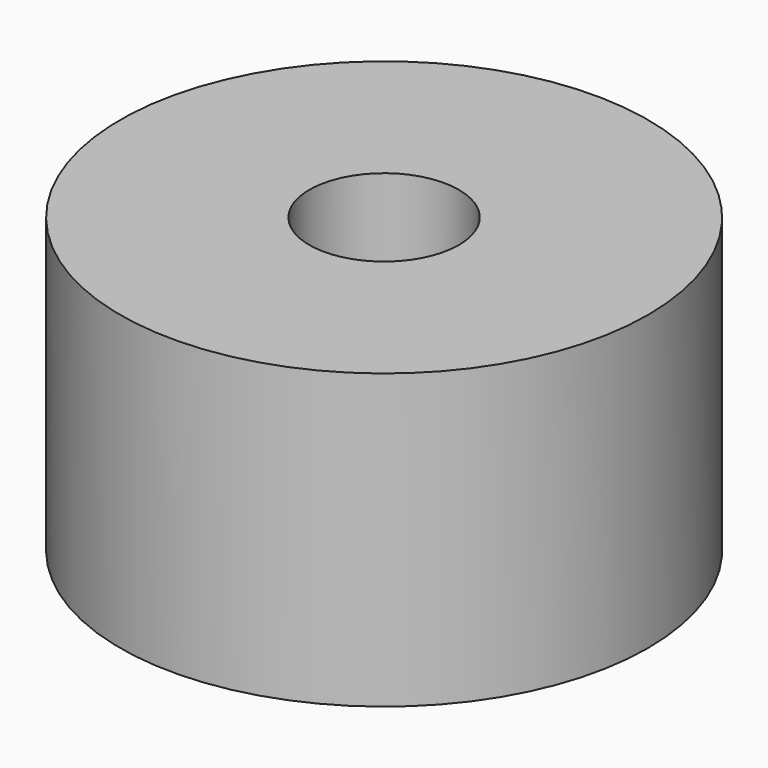
from build123d import *

# Parameters (mm, degrees)
CYLINDER980_R     = 1
CYLINDER980_DEPTH = 20
CYLINDER977_R     = 1
CYLINDER977_DEPTH = 20
CYLINDER976_R     = 1
CYLINDER976_DEPTH = 20
CYLINDER979_R     = 1
CYLINDER979_DEPTH = 20
TUBE089_R         = 9
TUBE089_R_2       = 2.55
TUBE089_DEPTH     = 10


with BuildPart() as obj1:
    # Cylinder980 → Cylinder980 (new body)
    with BuildSketch(Plane(origin=(4.5, -4.5, -88), x_dir=(0, 1, 0), z_dir=(0, 0, 1))):
        Circle(CYLINDER980_R)
    extrude(amount=CYLINDER980_DEPTH)


with BuildPart() as obj2:
    # Cylinder977 → Cylinder977 (new body)
    with BuildSketch(Plane(origin=(4.5, 4.5, -88), x_dir=(-1, 0, 0), z_dir=(0, 0, 1))):
        Circle(CYLINDER977_R)
    extrude(amount=CYLINDER977_DEPTH)


with BuildPart() as obj3:
    # Cylinder976 → Cylinder976 (new body)
    with BuildSketch(Plane(origin=(-4.5, 4.5, -88), x_dir=(0, -1, 0), z_dir=(0, 0, 1))):
        Circle(CYLINDER976_R)
    extrude(amount=CYLINDER976_DEPTH)


with BuildPart() as compound809:
    # Cylinder979 → Cylinder979 (new body)
    with BuildSketch(Plane(origin=(-4.5, -4.5, -88), x_dir=(1, 0, 0), z_dir=(0, 0, 1))):
        Circle(CYLINDER979_R)
    extrude(amount=CYLINDER979_DEPTH)

    # Compound809: union obj1, obj2, obj3
    add(obj1.part)
    add(obj2.part)
    add(obj3.part)


with BuildPart() as compound809_1:
    # Compound809 placement: moved
    add(compound809.part.moved(Location((0, 0, 91))))


with BuildPart() as cut413:
    # Tube089 → Tube089 (new body)
    with BuildSketch(Plane.XY.offset(19)):
        Circle(TUBE089_R)
        Circle(TUBE089_R_2, mode=Mode.SUBTRACT)
    extrude(amount=TUBE089_DEPTH)

    # Cut413: cut Compound809
    add(compound809_1.part, mode=Mode.SUBTRACT)


solid = cut413.part
